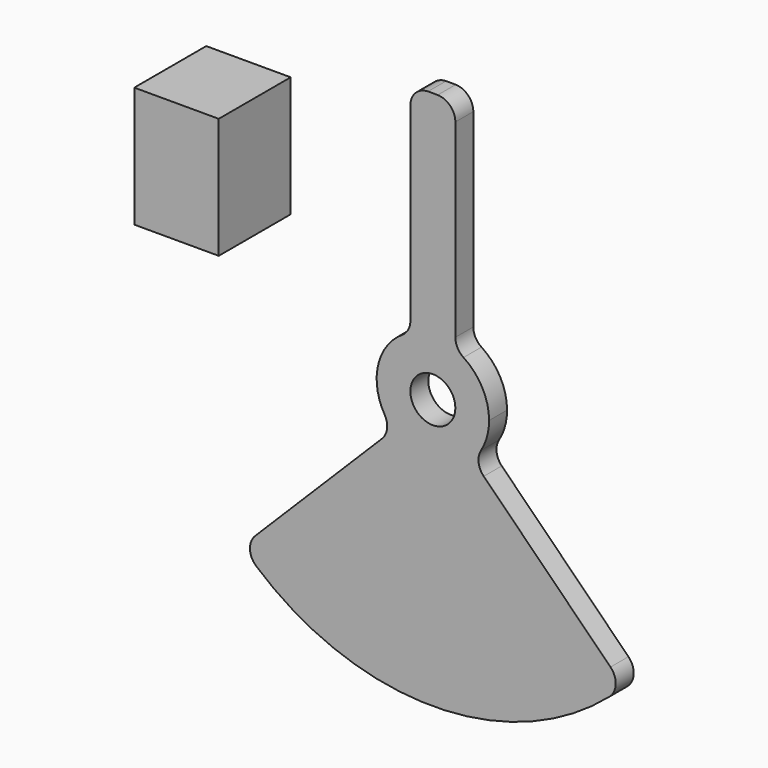
from build123d import *

# Parameters (mm, degrees)
F0_R     = 6.35
F1_DEPTH = 6.35
F2_R     = 5.08
F3_W     = 23.8519832492
F3_H     = 34.067934379
F4_DEPTH = 25.4


with BuildPart() as f1:
    # F0 (on Front) → F1 (new body)
    with BuildSketch(Plane.XZ):
        with BuildLine():
            ThreePointArc((-6.35, 14.5496778315), (0, 15.875), (6.35, 14.5496778315))
            Line((6.35, 14.5496778315), (6.35, 66.3719302492))
            ThreePointArc((6.35, 66.3719302492), (0, 66.675), (-6.35, 66.3719302492))
            Line((-6.35, 66.3719302492), (-6.35, 14.5496778315))
        make_face()
        with BuildLine():
            ThreePointArc((-6.35, 66.3719302492), (0, 66.675), (6.35, 66.3719302492))
            Line((6.35, 66.3719302492), (6.35, 75.9349557187))
            ThreePointArc((6.35, 75.9349557187), (0, 76.2), (-6.35, 75.9349557187))
            Line((-6.35, 75.9349557187), (-6.35, 66.3719302492))
        make_face()
        with BuildLine():
            ThreePointArc((11.2253201513, -11.2253201513), (14.6665875786, -6.0750994888), (15.875, 0))
            ThreePointArc((15.875, 0), (13.2819779212, 8.6950956004), (6.35, 14.5496778315))
            ThreePointArc((6.35, 14.5496778315), (0, 15.875), (-6.35, 14.5496778315))
            ThreePointArc((-6.35, 14.5496778315), (-15.5984165818, 2.9504279589), (-11.2253201513, -11.2253201513))
            ThreePointArc((-11.2253201513, -11.2253201513), (0, -15.875), (11.2253201513, -11.2253201513))
        make_face()
        Circle(F0_R, mode=Mode.SUBTRACT)
        with BuildLine():
            Line((53.8815367264, -53.8815367264), (47.1463446356, -47.1463446356))
            ThreePointArc((47.1463446356, -47.1463446356), (0, -66.675), (-47.1463446356, -47.1463446356))
            Line((-47.1463446356, -47.1463446356), (-53.8815367264, -53.8815367264))
            ThreePointArc((-53.8815367264, -53.8815367264), (0, -76.2), (53.8815367264, -53.8815367264))
        make_face()
        with BuildLine():
            Line((47.1463446356, -47.1463446356), (11.2253201513, -11.2253201513))
            ThreePointArc((11.2253201513, -11.2253201513), (0, -15.875), (-11.2253201513, -11.2253201513))
            Line((-11.2253201513, -11.2253201513), (-47.1463446356, -47.1463446356))
            ThreePointArc((-47.1463446356, -47.1463446356), (0, -66.675), (47.1463446356, -47.1463446356))
        make_face()
    extrude(amount=F1_DEPTH)

    # F2
    f2_edges = [f1.edges().sort_by_distance(p)[0] for p in [
        (6.35, -3.175, 75.934956),
        (-6.35, -3.175, 75.934956),
        (-6.35, -3.175, 14.549678),
        (-11.22532, -3.175, -11.22532),
        (6.35, -3.175, 14.549678),
        (11.22532, -3.175, -11.22532),
        (53.881537, -3.175, -53.881537),
        (-53.881537, -3.175, -53.881537),
    ]]
    fillet(f2_edges, radius=F2_R)


with BuildPart() as f4:
    # F3 (on Front) → F4 (new body)
    with BuildSketch(Plane.XZ):
        with Locations((-57.1547560394, 45.8310293034)):
            Rectangle(F3_W, F3_H)
    extrude(amount=F4_DEPTH)


solid = Compound([f1.part, f4.part])
